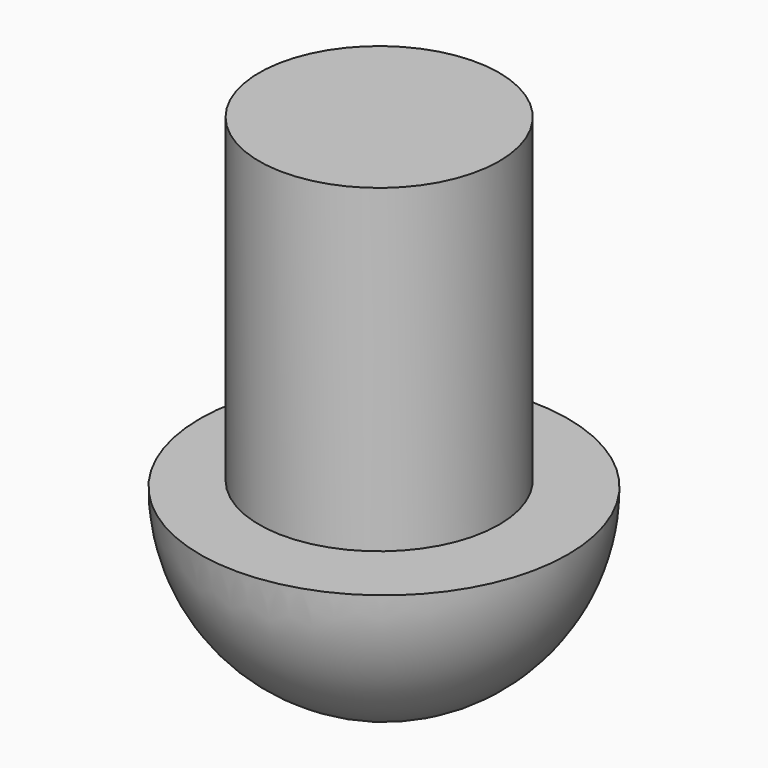
from build123d import *

# Parameters (mm, degrees)
F3_W     = 10
F3_H     = 4.6456689391
F4_DEPTH = 25
F5_R     = 1.5
F6_DEPTH = 4


with BuildPart() as f1:
    # F0 (on Front) → F1 (revolve)
    with BuildSketch(Plane.XZ):
        with BuildLine():
            Line((-2.3, 0), (2.3, 0))
            ThreePointArc((2.3, 0), (0, 2.3), (-2.3, 0))
        make_face()
    revolve(axis=Axis((0, 0, 0), (1, 0, 0)))

    # F3 (on offset) → F4 (cut)
    with BuildSketch(Plane.XZ.offset(10)):
        with Locations((0.6477613404, 2.3228344696)):
            Rectangle(F3_W, F3_H)
    extrude(amount=-F4_DEPTH, mode=Mode.SUBTRACT)

    # F5 (on face) → F6 (join)
    with BuildSketch(Plane.XY):
        with Locations((-0.1185681322, 0.0726561921)):
            Circle(F5_R)
    extrude(amount=F6_DEPTH)


solid = f1.part
